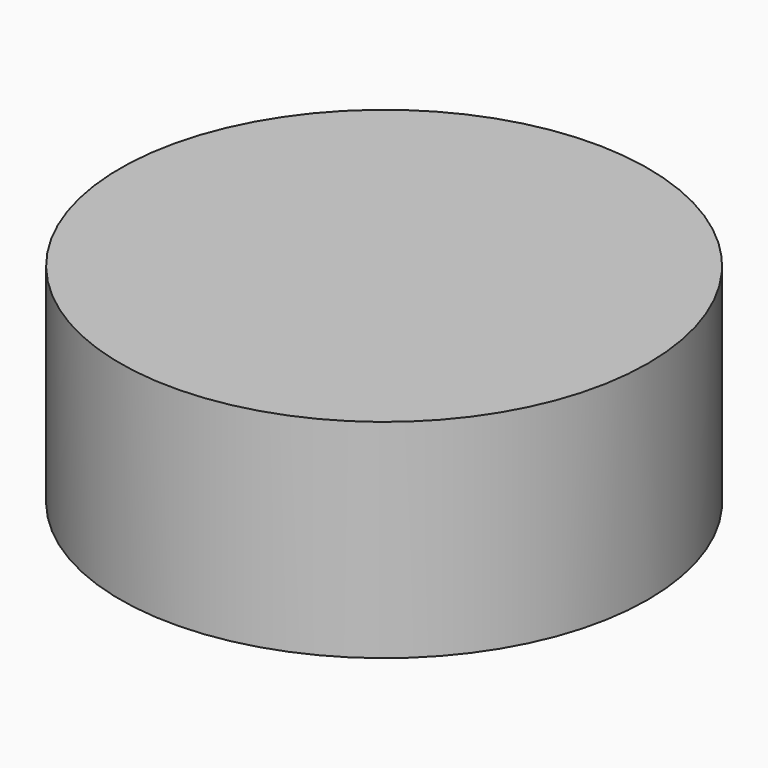
from build123d import *

# Parameters (mm, degrees)
CYLINDER_R     = 16.5
CYLINDER_DEPTH = 13


with BuildPart() as cilindro:
    # Cylinder → Cylinder (new body)
    with BuildSketch(Plane.XY):
        Circle(CYLINDER_R)
    extrude(amount=CYLINDER_DEPTH)


with BuildPart() as fusion:
    # Cone → Cone (revolve)
    with BuildSketch(Plane(origin=(0, 0, -5), x_dir=(1, 0, 0), z_dir=(0, -1, 0))):
        Polygon((0, 0), (3.5, 0), (16.5, 5), (0, 5), align=None)
    revolve(axis=Axis((0, 0, -5), (0, 0, 1)))

    # Fusion: union Cilindro
    add(cilindro.part)


solid = fusion.part
